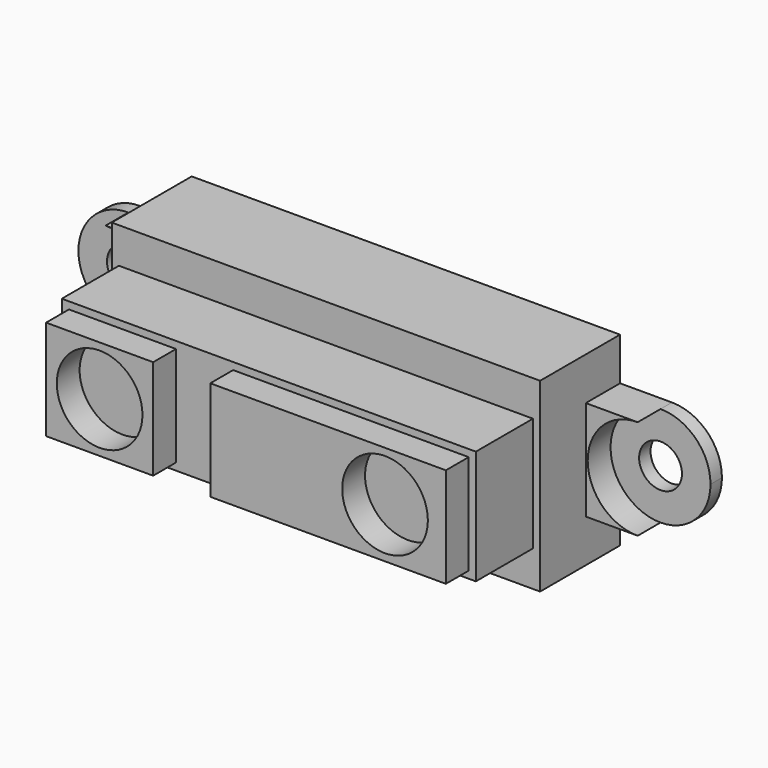
from build123d import *

# Parameters (mm, degrees)
F1_DEPTH = 7
F2_W     = 29
F2_H     = 8
F3_DEPTH = 5
F4_W     = 16.5
F4_H     = 7
F4_R     = 3
F5_DEPTH = 2
F0_R     = 1.5
F6_DEPTH = 1
F7_DEPTH = 3


with BuildPart() as f1:
    # F0 (on Front) → F1 (new body)
    with BuildSketch(Plane.XZ):
        Polygon((15, 3.5), (15, 6.5), (-15, 6.5), (-15, 3.5), (-15, -3.5), (-15, -6.5), (15, -6.5), (15, -3.5), align=None)
    extrude(amount=F1_DEPTH)

    # F2 (on face) → F3 (join)
    with BuildSketch(Plane.XZ.offset(7)):
        Rectangle(F2_W, F2_H)
    extrude(amount=F3_DEPTH)

    # F4 (on face) → F5 (join)
    with BuildSketch(Plane.XZ.offset(12)):
        with BuildLine():
            Line((-6.5, 3.5), (-14, 3.5))
            Line((-14, 3.5), (-14, 0))
            Line((-14, 0), (-13.25, 0))
            ThreePointArc((-13.25, 0), (-10.25, 3), (-7.25, 0))
            Line((-7.25, 0), (-6.5, 0))
            Line((-6.5, 0), (-6.5, 3.5))
        make_face()
        with BuildLine():
            Line((-13.25, 0), (-14, 0))
            Line((-14, 0), (-14, -3.5))
            Line((-14, -3.5), (-6.5, -3.5))
            Line((-6.5, -3.5), (-6.5, 0))
            Line((-6.5, 0), (-7.25, 0))
            ThreePointArc((-7.25, 0), (-10.25, -3), (-13.25, 0))
        make_face()
        with Locations((5.75, 0)):
            Rectangle(F4_W, F4_H)
        with Locations((9.739062, 0)):
            Circle(F4_R, mode=Mode.SUBTRACT)
    extrude(amount=F5_DEPTH)

    # F0 (on Front) → F6 (join)
    with BuildSketch(Plane.XZ):
        with BuildLine():
            Line((-15, -3.5), (-15, 3.5))
            Line((-15, 3.5), (-18.635049, 3.5))
            ThreePointArc((-18.635049, 3.5), (-16.160176, 2.474874), (-15.135049, 0))
            ThreePointArc((-15.135049, 0), (-16.160176, -2.474874), (-18.635049, -3.5))
            Line((-18.635049, -3.5), (-15, -3.5))
        make_face()
        with BuildLine():
            Line((18.635049, 3.5), (15, 3.5))
            Line((15, 3.5), (15, -3.5))
            Line((15, -3.5), (18.635049, -3.5))
            ThreePointArc((18.635049, -3.5), (15.135049, 0), (18.635049, 3.5))
        make_face()
        with BuildLine():
            ThreePointArc((-15.135049, 0), (-16.160176, 2.474874), (-18.635049, 3.5))
            ThreePointArc((-18.635049, 3.5), (-22.135049, 0), (-18.635049, -3.5))
            ThreePointArc((-18.635049, -3.5), (-16.160176, -2.474874), (-15.135049, 0))
        make_face()
        with Locations((-18.635049, 0)):
            Circle(F0_R, mode=Mode.SUBTRACT)
        with BuildLine():
            ThreePointArc((22.135049, 0), (21.109923, 2.474874), (18.635049, 3.5))
            ThreePointArc((18.635049, 3.5), (15.135049, 0), (18.635049, -3.5))
            ThreePointArc((18.635049, -3.5), (21.109923, -2.474874), (22.135049, 0))
        make_face()
        with Locations((18.635049, 0)):
            Circle(F0_R, mode=Mode.SUBTRACT)
    extrude(amount=F6_DEPTH)

    # F0 (on Front) → F7 (join)
    with BuildSketch(Plane.XZ):
        with BuildLine():
            Line((-15, -3.5), (-15, 3.5))
            Line((-15, 3.5), (-18.635049, 3.5))
            ThreePointArc((-18.635049, 3.5), (-16.160176, 2.474874), (-15.135049, 0))
            ThreePointArc((-15.135049, 0), (-16.160176, -2.474874), (-18.635049, -3.5))
            Line((-18.635049, -3.5), (-15, -3.5))
        make_face()
        with BuildLine():
            Line((18.635049, 3.5), (15, 3.5))
            Line((15, 3.5), (15, -3.5))
            Line((15, -3.5), (18.635049, -3.5))
            ThreePointArc((18.635049, -3.5), (15.135049, 0), (18.635049, 3.5))
        make_face()
    extrude(amount=F7_DEPTH)


solid = f1.part
